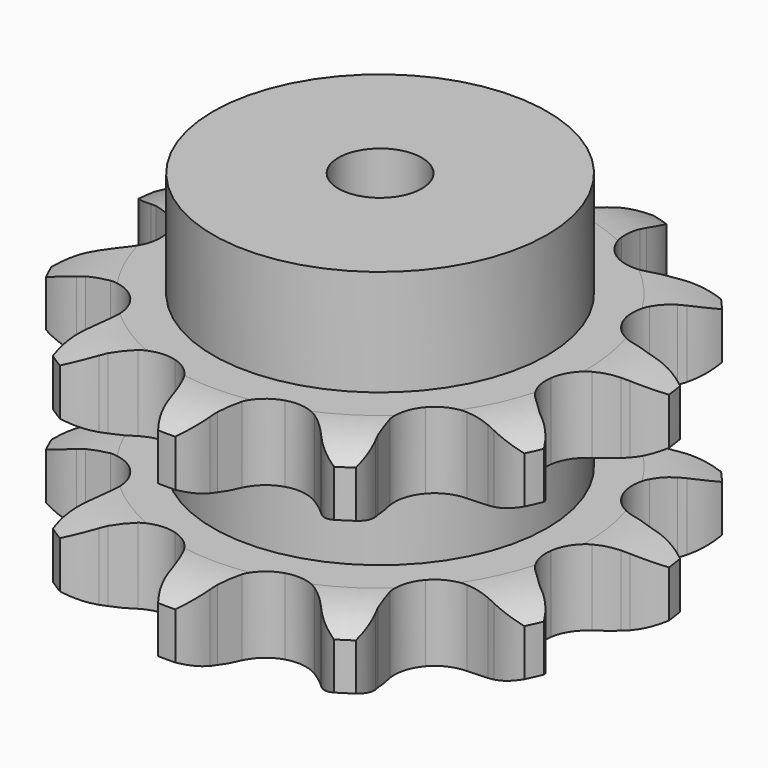
from build123d import *

# Parameters (mm, degrees)
PAD_DEPTH         = 54.6
SKETCH001_R       = 40
PAD001_DEPTH      = 80
SKETCH002_R       = 10
POCKET_DEPTH      = 0.001
POCKET_DEPTH_BACK = -80.001


with BuildPart() as part:
    # Sprocket → Pad (new body)
    with BuildSketch(Plane.XY):
        with BuildLine():
            ThreePointArc((-18.622894, 63.423751), (-14.36065, 60.466115), (-11.25458, 56.310798))
            Line((-11.25458, 56.310798), (-10.437317, 54.743885))
            ThreePointArc((-10.437317, 54.743885), (-9.005749, 52.339808), (-7.313002, 50.111898))
            ThreePointArc((-7.313002, 50.111898), (-4.027085, 47.621448), (0, 46.73704))
            ThreePointArc((0, 46.73704), (4.027085, 47.621448), (7.313002, 50.111898))
            ThreePointArc((7.313002, 50.111898), (9.005749, 52.339808), (10.437317, 54.743885))
            Line((10.437317, 54.743885), (11.25458, 56.310798))
            ThreePointArc((11.25458, 56.310798), (14.36065, 60.466115), (18.622894, 63.423751))
            ThreePointArc((18.622894, 63.423751), (20.609503, 58.631287), (20.97596, 53.456343))
            Line((20.97596, 53.456343), (20.816349, 51.696326))
            ThreePointArc((20.816349, 51.696326), (20.720918, 48.899924), (20.940449, 46.110519))
            ThreePointArc((20.940449, 46.110519), (22.358299, 42.238918), (25.267952, 39.3177))
            ThreePointArc((25.267952, 39.3177), (29.133898, 37.884504), (33.244627, 38.203104))
            Line((33.244627, 38.203104), (38.377209, 40.410648))
            ThreePointArc((38.377209, 40.410648), (39.136747, 40.862456), (39.911871, 41.286972))
            ThreePointArc((39.911871, 41.286972), (44.771397, 43.10338), (49.956044, 43.287158))
            ThreePointArc((49.956044, 43.287158), (49.036284, 38.181439), (46.546782, 33.629877))
            Line((46.546782, 33.629877), (45.460972, 32.235549))
            ThreePointArc((45.460972, 32.235549), (43.86884, 29.93466), (42.545455, 27.469376))
            ThreePointArc((42.545455, 27.469376), (41.645081, 23.44583), (42.513507, 19.415268))
            ThreePointArc((42.513507, 19.415268), (44.990904, 16.119499), (48.621317, 14.165094))
            Line((48.621317, 14.165094), (54.132608, 13.247315))
            ThreePointArc((54.132608, 13.247315), (55.015839, 13.216762), (55.897425, 13.154824))
            ThreePointArc((55.897425, 13.154824), (60.967543, 12.055626), (65.428503, 9.407199))
            ThreePointArc((65.428503, 9.407199), (61.894391, 5.609254), (57.339329, 3.126163))
            Line((57.339329, 3.126163), (55.672057, 2.540213))
            ThreePointArc((55.672057, 2.540213), (53.088716, 1.465353), (50.64258, 0.106899))
            ThreePointArc((50.64258, 0.106899), (47.709844, -2.791143), (46.261325, -6.651374))
            ThreePointArc((46.261325, -6.651374), (46.563616, -10.763334), (48.561083, -14.370233))
            Line((48.561083, -14.370233), (52.701287, -18.121947))
            ThreePointArc((52.701287, -18.121947), (53.42779, -18.62516), (54.135941, -19.153887))
            ThreePointArc((54.135941, -19.153887), (57.806924, -22.819705), (60.127875, -27.45948))
            ThreePointArc((60.127875, -27.45948), (55.101467, -28.74383), (49.927044, -28.370086))
            Line((49.927044, -28.370086), (48.207657, -27.961623))
            ThreePointArc((48.207657, -27.961623), (45.453299, -27.469194), (42.661044, -27.289516))
            ThreePointArc((42.661044, -27.289516), (38.627069, -28.141948), (35.321498, -30.606253))
            ThreePointArc((35.321498, -30.606253), (33.352709, -34.228884), (33.083048, -38.343113))
            Line((33.083048, -38.343113), (34.537679, -43.737619))
            ThreePointArc((34.537679, -43.737619), (34.876795, -44.553726), (35.186679, -45.381375))
            ThreePointArc((35.186679, -45.381375), (36.293015, -50.44994), (35.737071, -55.607968))
            ThreePointArc((35.737071, -55.607968), (30.814216, -53.97095), (26.663276, -50.859033))
            Line((26.663276, -50.859033), (25.437667, -49.585841))
            ThreePointArc((25.437667, -49.585841), (23.386781, -47.682465), (21.134927, -46.021704))
            ThreePointArc((21.134927, -46.021704), (17.280472, -44.557883), (13.167346, -44.843862))
            ThreePointArc((13.167346, -44.843862), (9.552552, -46.827006), (7.101379, -50.142325))
            Line((7.101379, -50.142325), (5.408603, -55.466905))
            ThreePointArc((5.408603, -55.466905), (5.252665, -56.336798), (5.065894, -57.200596))
            ThreePointArc((5.065894, -57.200596), (3.256331, -62.062675), (0, -66.101319))
            ThreePointArc((0, -66.101319), (-3.256331, -62.062675), (-5.065894, -57.200596))
            Line((-5.065894, -57.200596), (-5.408603, -55.466905))
            ThreePointArc((-5.408603, -55.466905), (-6.104875, -52.756891), (-7.101379, -50.142325))
            ThreePointArc((-7.101379, -50.142325), (-9.552552, -46.827006), (-13.167346, -44.843862))
            ThreePointArc((-13.167346, -44.843862), (-17.280472, -44.557883), (-21.134927, -46.021704))
            Line((-21.134927, -46.021704), (-25.437667, -49.585841))
            ThreePointArc((-25.437667, -49.585841), (-26.03915, -50.233335), (-26.663276, -50.859033))
            ThreePointArc((-26.663276, -50.859033), (-30.814216, -53.97095), (-35.737071, -55.607968))
            ThreePointArc((-35.737071, -55.607968), (-36.293015, -50.44994), (-35.186679, -45.381375))
            Line((-35.186679, -45.381375), (-34.537679, -43.737619))
            ThreePointArc((-34.537679, -43.737619), (-33.658276, -41.081376), (-33.083048, -38.343113))
            ThreePointArc((-33.083048, -38.343113), (-33.352709, -34.228884), (-35.321498, -30.606253))
            ThreePointArc((-35.321498, -30.606253), (-38.627069, -28.141948), (-42.661044, -27.289516))
            Line((-42.661044, -27.289516), (-48.207657, -27.961623))
            ThreePointArc((-48.207657, -27.961623), (-49.063718, -28.181144), (-49.927044, -28.370086))
            ThreePointArc((-49.927044, -28.370086), (-55.101467, -28.74383), (-60.127875, -27.45948))
            ThreePointArc((-60.127875, -27.45948), (-57.806924, -22.819705), (-54.135941, -19.153887))
            Line((-54.135941, -19.153887), (-52.701287, -18.121947))
            ThreePointArc((-52.701287, -18.121947), (-50.525412, -16.362815), (-48.561083, -14.370233))
            ThreePointArc((-48.561083, -14.370233), (-46.563616, -10.763334), (-46.261325, -6.651374))
            ThreePointArc((-46.261325, -6.651374), (-47.709844, -2.791143), (-50.64258, 0.106899))
            Line((-50.64258, 0.106899), (-55.672057, 2.540213))
            ThreePointArc((-55.672057, 2.540213), (-56.510903, 2.818362), (-57.339329, 3.126163))
            ThreePointArc((-57.339329, 3.126163), (-61.894391, 5.609254), (-65.428503, 9.407199))
            ThreePointArc((-65.428503, 9.407199), (-60.967543, 12.055626), (-55.897425, 13.154824))
            Line((-55.897425, 13.154824), (-54.132608, 13.247315))
            ThreePointArc((-54.132608, 13.247315), (-51.351087, 13.550824), (-48.621317, 14.165094))
            ThreePointArc((-48.621317, 14.165094), (-44.990904, 16.119499), (-42.513507, 19.415268))
            ThreePointArc((-42.513507, 19.415268), (-41.645081, 23.44583), (-42.545455, 27.469376))
            Line((-42.545455, 27.469376), (-45.460972, 32.235549))
            ThreePointArc((-45.460972, 32.235549), (-46.016275, 32.923058), (-46.546782, 33.629877))
            ThreePointArc((-46.546782, 33.629877), (-49.036284, 38.181439), (-49.956044, 43.287158))
            ThreePointArc((-49.956044, 43.287158), (-44.771397, 43.10338), (-39.911871, 41.286972))
            Line((-39.911871, 41.286972), (-38.377209, 40.410648))
            ThreePointArc((-38.377209, 40.410648), (-35.873155, 39.162173), (-33.244627, 38.203104))
            ThreePointArc((-33.244627, 38.203104), (-29.133898, 37.884504), (-25.267952, 39.3177))
            ThreePointArc((-25.267952, 39.3177), (-22.358299, 42.238918), (-20.940449, 46.110519))
            Line((-20.940449, 46.110519), (-20.816349, 51.696326))
            ThreePointArc((-20.816349, 51.696326), (-20.911805, 52.574915), (-20.97596, 53.456343))
            ThreePointArc((-20.97596, 53.456343), (-20.609503, 58.631287), (-18.622894, 63.423751))
        make_face()
    extrude(amount=PAD_DEPTH)

    # Sketch → Groove (revolve, cut)
    with BuildSketch(Plane.XZ):
        with BuildLine():
            ThreePointArc((49.348368, 0), (56.831683, 0.887302), (63.9, 3.5))
            Line((63.9, 3.5), (63.9, 14.7))
            ThreePointArc((63.9, 14.7), (56.831683, 17.312698), (49.348368, 18.2))
            Line((40, 18.2), (49.348368, 18.2))
            Line((40, 36.4), (40, 18.2))
            Line((49.348368, 36.4), (40, 36.4))
            ThreePointArc((49.348368, 36.4), (56.831683, 37.287302), (63.9, 39.9))
            Line((63.9, 39.9), (63.9, 51.1))
            ThreePointArc((63.9, 51.1), (56.831683, 53.712698), (49.348368, 54.6))
            Line((49.348368, 54.6), (73.9, 54.6))
            Line((73.9, 54.6), (73.9, 0))
            Line((49.348368, 0), (73.9, 0))
        make_face()
    revolve(axis=Axis((0, 0, 0), (0, 0, 1)), mode=Mode.SUBTRACT)

    # Sketch001 → Pad001 (join)
    with BuildSketch(Plane.XY):
        Circle(SKETCH001_R)
    extrude(amount=PAD001_DEPTH)

    # Sketch002 → Pocket (cut, two sides)
    with BuildSketch(Plane.XY) as pocket_sk:
        Circle(SKETCH002_R)
    extrude(amount=-POCKET_DEPTH, mode=Mode.SUBTRACT)
    extrude(pocket_sk.sketch, amount=-POCKET_DEPTH_BACK, mode=Mode.SUBTRACT)


solid = part.part
